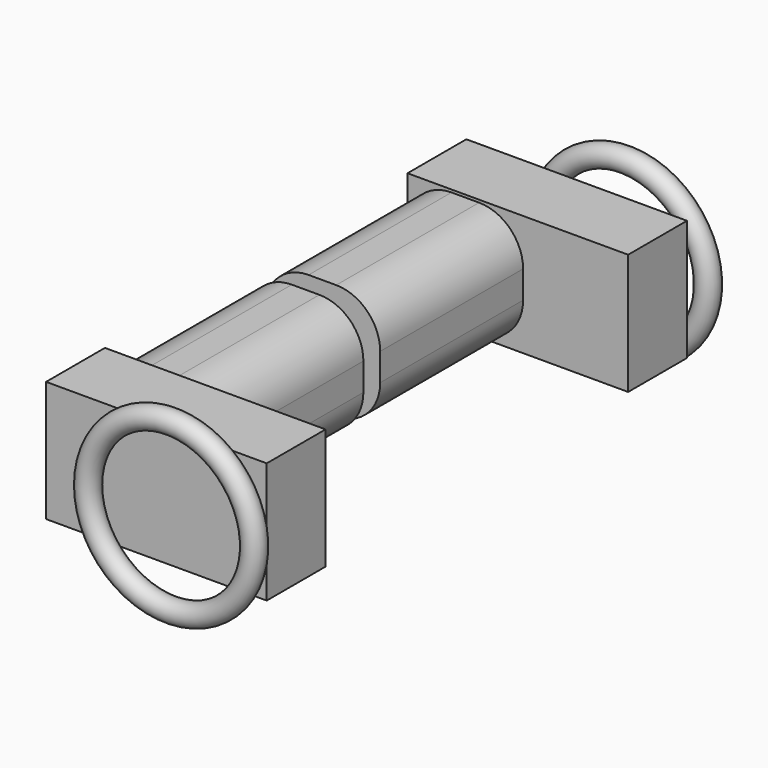
from build123d import *

# Parameters (mm, degrees)
TORUS_R                   = 2.1
TORUS_ROLL_ANGLE          = 90
SKETCH002_W               = 14
SKETCH002_H               = 42
PAD001_DEPTH              = 23
PAD002_DEPTH              = 34
FUSION_PLACEMENT_ANGLE    = 90
TORUS001_R                = 2.1
TORUS001_ROLL_ANGLE       = 90
FUSION004_PLACEMENT_ANGLE = 180


with BuildPart() as toro:
    # Torus → Torus (revolve)
    with BuildSketch(Plane.XZ):
        with Locations((15.8, 0)):
            Circle(TORUS_R)
    revolve(axis=Axis((0, 0, 0), (0, 0, 1)))


with BuildPart() as toro_1:
    # Torus roll: moved
    add(toro.part.rotate(Axis((0, 0, 0), (1, 0, 0)), TORUS_ROLL_ANGLE))


with BuildPart() as toro_2:
    # Torus placement: moved
    add(toro_1.part.moved(Location((0, 54, 17))))


with BuildPart() as pad001:
    # Sketch002 → Pad001 (new body)
    with BuildSketch(Plane.XY):
        with Locations((7, 21)):
            Rectangle(SKETCH002_W, SKETCH002_H)
    extrude(amount=PAD001_DEPTH)


with BuildPart() as pad002:
    # Pad002 base: copy of Pad001
    add(pad001.part)

    # Sketch003 → Pad002 (new body)
    with BuildSketch(Plane.YZ.offset(14)):
        with BuildLine():
            Line((8.374457, 0.5), (13.625543, 0.5))
            ThreePointArc((13.625543, 0.5), (19.547178, 2.952822), (22, 8.874457))
            Line((22, 8.874457), (22, 14.125543))
            ThreePointArc((22, 14.125543), (19.547178, 20.047178), (13.625543, 22.5))
            Line((13.625543, 22.5), (8.374457, 22.5))
            ThreePointArc((8.374457, 22.5), (2.452822, 20.047178), (0, 14.125543))
            Line((0, 14.125543), (0, 8.874457))
            ThreePointArc((0, 8.874457), (2.452822, 2.952822), (8.374457, 0.5))
        make_face()
    extrude(amount=PAD002_DEPTH)


with BuildPart() as fusion:
    # Fusion base: copy of Pad001
    add(pad001.part)

    # Fusion: union Pad002
    add(pad002.part)


with BuildPart() as fusion_1:
    # Fusion placement: moved
    add(fusion.part.moved(Location((27, -50, 5))).rotate(Axis((27, -50, 5), (0, 0, 1)), FUSION_PLACEMENT_ANGLE))


with BuildPart() as part_mirroring:
    # Part__Mirroring: instance of Fusion
    add(fusion_1.part.mirror(Plane(origin=(24, 0, 0), x_dir=(1, 0, 0), z_dir=(0, 1, 0))))


with BuildPart() as obj1:
    # Torus001 → Torus001 (revolve)
    with BuildSketch(Plane.XZ):
        with Locations((15.8, 0)):
            Circle(TORUS001_R)
    revolve(axis=Axis((0, 0, 0), (0, 0, 1)))


with BuildPart() as obj1_1:
    # Torus001 roll: moved
    add(obj1.part.rotate(Axis((0, 0, 0), (1, 0, 0)), TORUS001_ROLL_ANGLE))


with BuildPart() as obj1_2:
    # Torus001 placement: moved
    add(obj1_1.part.moved(Location((0, -54, 17))))

    # Fusion004: union Toro, Part__Mirroring, Fusion
    add(toro_2.part)
    add(part_mirroring.part)
    add(fusion_1.part)


with BuildPart() as obj1_3:
    # Fusion004 placement: moved
    add(obj1_2.part.moved(Location((109, 0, 30))).rotate(Axis((109, 0, 30), (0, 1, 0)), FUSION004_PLACEMENT_ANGLE))


solid = obj1_3.part
